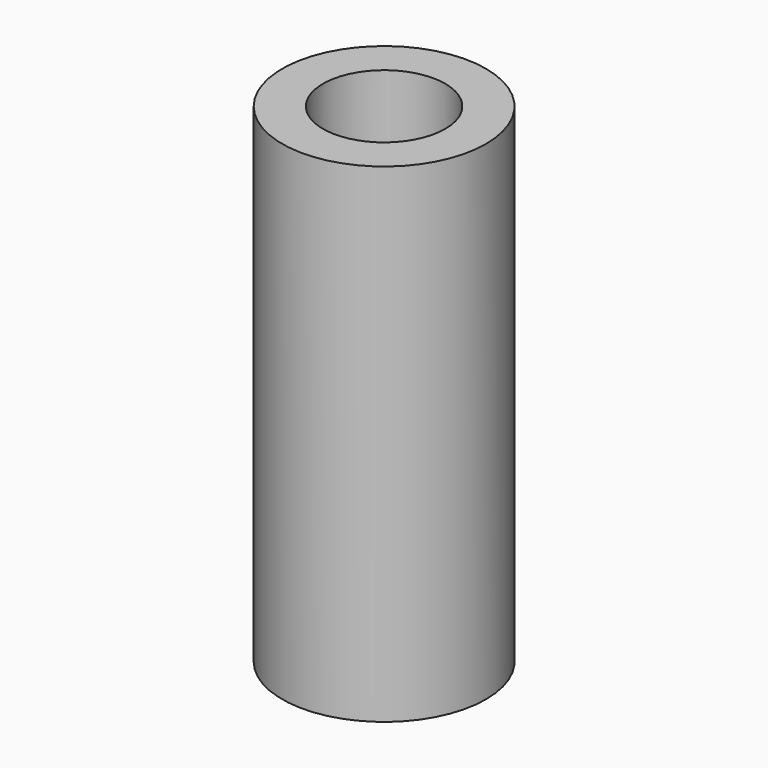
from build123d import *

# Parameters (mm, degrees)
SKETCH_R   = 12.5
SKETCH_R_2 = 7.5
PAD_DEPTH  = 60


with BuildPart() as part:
    # Sketch → Pad (new body)
    with BuildSketch(Plane.XY):
        Circle(SKETCH_R)
        Circle(SKETCH_R_2, mode=Mode.SUBTRACT)
    extrude(amount=PAD_DEPTH)


solid = part.part
